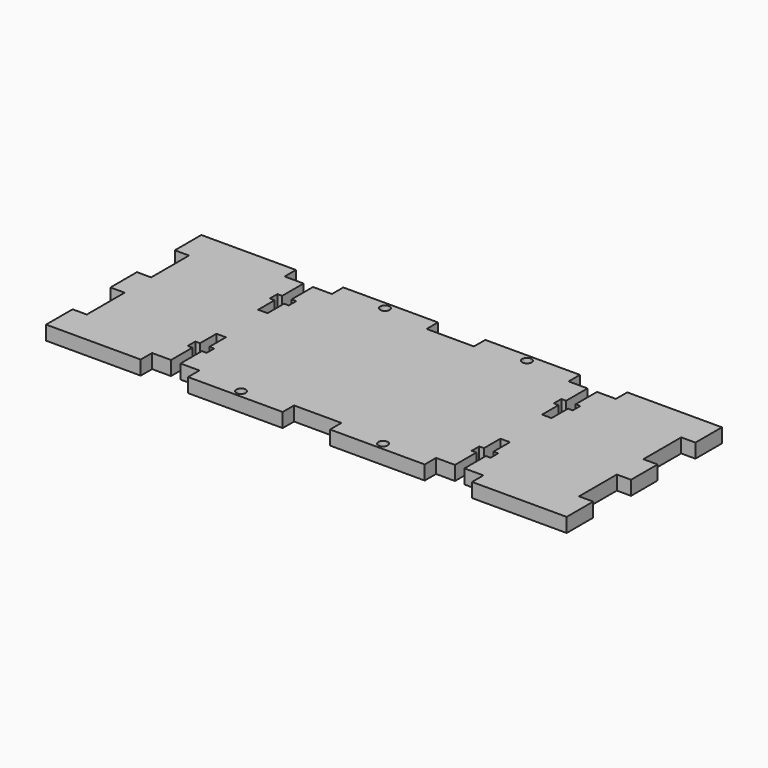
from build123d import *

# Parameters (mm, degrees)
F0_R     = 1
F1_DEPTH = 3


with BuildPart() as f1:
    # F0 (on Top) → F1 (new body)
    with BuildSketch(Plane.XY):
        Polygon((-20, 0), (0, 0), (0, 7), (-3, 7), (-3, 17), (0, 17), (0, 24), (-3, 24), (-3, 34), (0, 34), (0, 41), (-20, 41), (-20, 38), (-24, 38), (-24, 32.343179), (-23, 32.343179), (-23, 30.343179), (-24, 30.343179), (-24, 26), (-26, 26), (-26, 30.343179), (-27, 30.343179), (-27, 32.343179), (-26, 32.343179), (-26, 38), (-30, 38), (-30, 41), (-50, 41), (-50, 38), (-60, 38), (-60, 41), (-80, 41), (-80, 38), (-84, 38), (-84, 32.343179), (-83, 32.343179), (-83, 30.343179), (-84, 30.343179), (-84, 26), (-86, 26), (-86, 30.343179), (-87, 30.343179), (-87, 32.343179), (-86, 32.343179), (-86, 38), (-90, 38), (-90, 41), (-110, 41), (-110, 34), (-107, 34), (-107, 24), (-110, 24), (-110, 17), (-107, 17), (-107, 7), (-110, 7), (-110, 0), (-90, 0), (-90, 3), (-86, 3), (-86, 8.656821), (-87, 8.656821), (-87, 10.656821), (-86, 10.656821), (-86, 15), (-84, 15), (-84, 10.656821), (-83, 10.656821), (-83, 8.656821), (-84, 8.656821), (-84, 3), (-80, 3), (-80, 0), (-60, 0), (-60, 3), (-50, 3), (-50, 0), (-30, 0), (-30, 3), (-26, 3), (-26, 8.656821), (-27, 8.656821), (-27, 10.656821), (-26, 10.656821), (-26, 15), (-24, 15), (-24, 10.656821), (-23, 10.656821), (-23, 8.656821), (-24, 8.656821), (-24, 3), (-20, 3), align=None)
        with Locations((-70, 1.5)):
            Circle(F0_R, mode=Mode.SUBTRACT)
        with Locations((-40, 1.5)):
            Circle(F0_R, mode=Mode.SUBTRACT)
        with Locations((-70, 39.5)):
            Circle(F0_R, mode=Mode.SUBTRACT)
        with Locations((-40, 39.5)):
            Circle(F0_R, mode=Mode.SUBTRACT)
    extrude(amount=F1_DEPTH)


solid = f1.part
